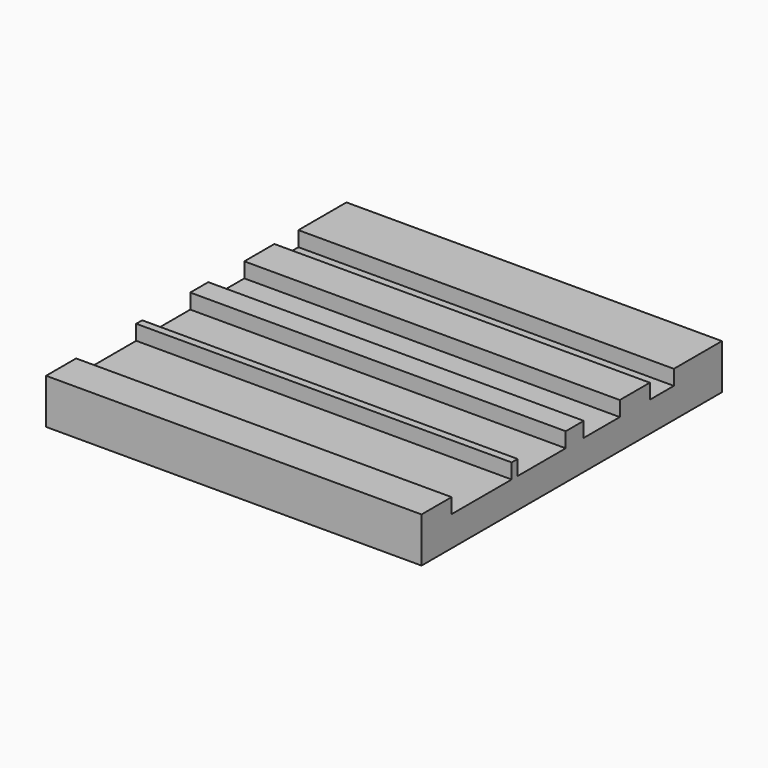
from build123d import *

# Parameters (mm, degrees)
F0_W     = 25
F0_H     = 25
F1_DEPTH = 3
F2_W     = 25
F2_H     = 2
F3_DEPTH = 1
F2_H_2   = 3
F2_H_3   = 4
F2_H_4   = 5


with BuildPart() as f1:
    # F0 (on Top) → F1 (new body)
    with BuildSketch(Plane.XY):
        Rectangle(F0_W, F0_H)
    extrude(amount=F1_DEPTH)


with BuildPart() as f3:
    # F2 (on face) → F3 (new body)
    with BuildSketch(Plane.XY.offset(3)):
        with Locations((0, 7.5)):
            Rectangle(F2_W, F2_H)
    extrude(amount=-F3_DEPTH)


with BuildPart() as f3b:
    # F2 (on face) → F3, piece 2 (new body)
    with BuildSketch(Plane.XY.offset(3)):
        with Locations((0, 2.5)):
            Rectangle(F2_W, F2_H_2)
    extrude(amount=-F3_DEPTH)


with BuildPart() as f3c:
    # F2 (on face) → F3, piece 3 (new body)
    with BuildSketch(Plane.XY.offset(3)):
        with Locations((0, -2.5)):
            Rectangle(F2_W, F2_H_3)
    extrude(amount=-F3_DEPTH)


with BuildPart() as f3d:
    # F2 (on face) → F3, piece 4 (new body)
    with BuildSketch(Plane.XY.offset(3)):
        with Locations((0, -7.5)):
            Rectangle(F2_W, F2_H_4)
    extrude(amount=-F3_DEPTH)


with BuildPart() as f1_1:
    add(f1.part)

    # F4: cut F3, F3b, F3c, F3d
    add(f3.part, mode=Mode.SUBTRACT)
    add(f3b.part, mode=Mode.SUBTRACT)
    add(f3c.part, mode=Mode.SUBTRACT)
    add(f3d.part, mode=Mode.SUBTRACT)


solid = f1_1.part
